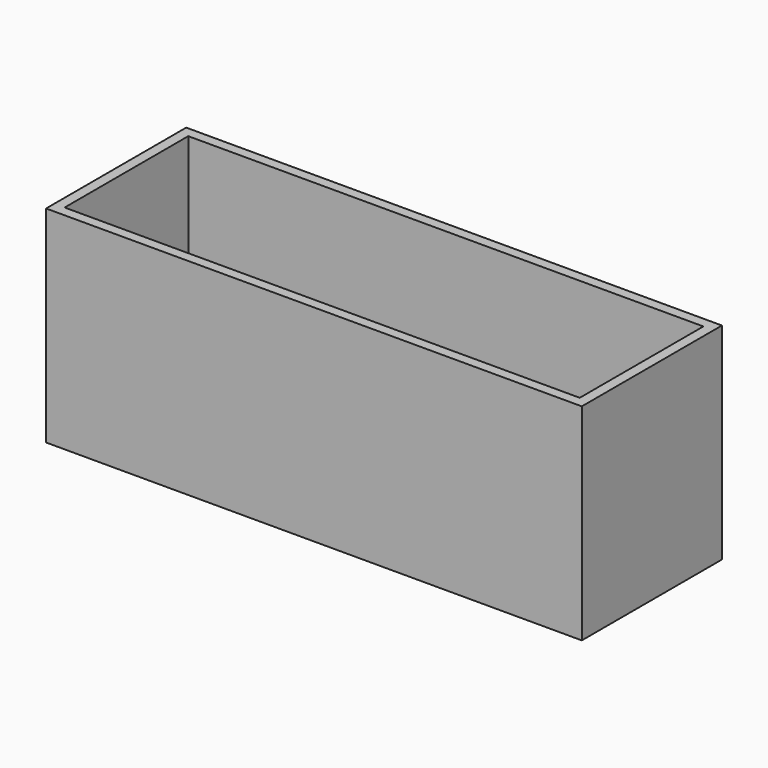
from build123d import *

# Parameters (mm, degrees)
SKETCH_W    = 104
SKETCH_H    = 34
PAD_DEPTH   = 40
THICKNESS_T = -2


with BuildPart() as part:
    # Sketch → Pad (new body)
    with BuildSketch(Plane.XY):
        Rectangle(SKETCH_W, SKETCH_H)
    extrude(amount=PAD_DEPTH)

    # Thickness
    thickness_openings = [part.faces().sort_by_distance(p)[0] for p in [
        (0, 0, 40),
    ]]
    offset(amount=THICKNESS_T, openings=thickness_openings)


solid = part.part
